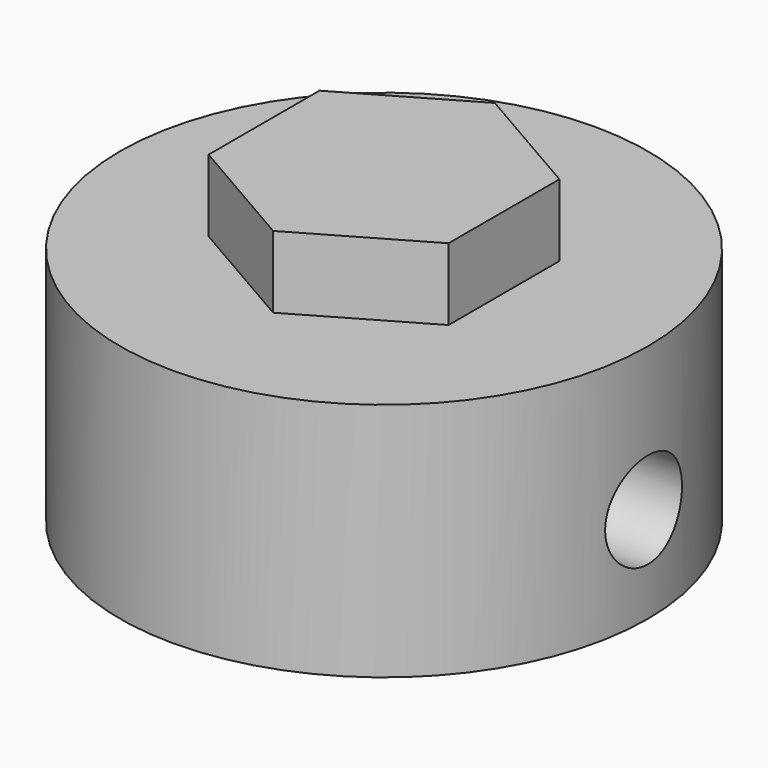
from build123d import *

# Parameters (mm, degrees)
F0_R     = 5.5
F1_DEPTH = 2.5
F3_DEPTH = 4
F4_R     = 1
F5_DEPTH = 50
F6_R     = 2.5
F7_DEPTH = 4


with BuildPart() as f1:
    # F0 (on Top) → F1 (new body, symmetric)
    with BuildSketch(Plane.XY):
        Circle(F0_R)
    extrude(amount=F1_DEPTH, both=True)

    # F2 (on Top) → F3 (join)
    with BuildSketch(Plane.XY):
        Polygon((-2.5, -1.443376), (0, -2.886751), (2.5, -1.443376), (2.5, 1.443376), (0, 2.886751), (-2.5, 1.443376), align=None)
    extrude(amount=F3_DEPTH)

    # F4 (on Right) → F5 (cut, symmetric)
    with BuildSketch(Plane.YZ):
        with Locations((0, -0.5)):
            Circle(F4_R)
    extrude(amount=F5_DEPTH, both=True, mode=Mode.SUBTRACT)

    # F6 (on face) → F7 (cut)
    with BuildSketch(Plane(origin=(0, 0, -2.5), x_dir=(1, 0, 0), z_dir=(0, 0, -1))):
        Circle(F6_R)
    extrude(amount=-F7_DEPTH, mode=Mode.SUBTRACT)


solid = f1.part
